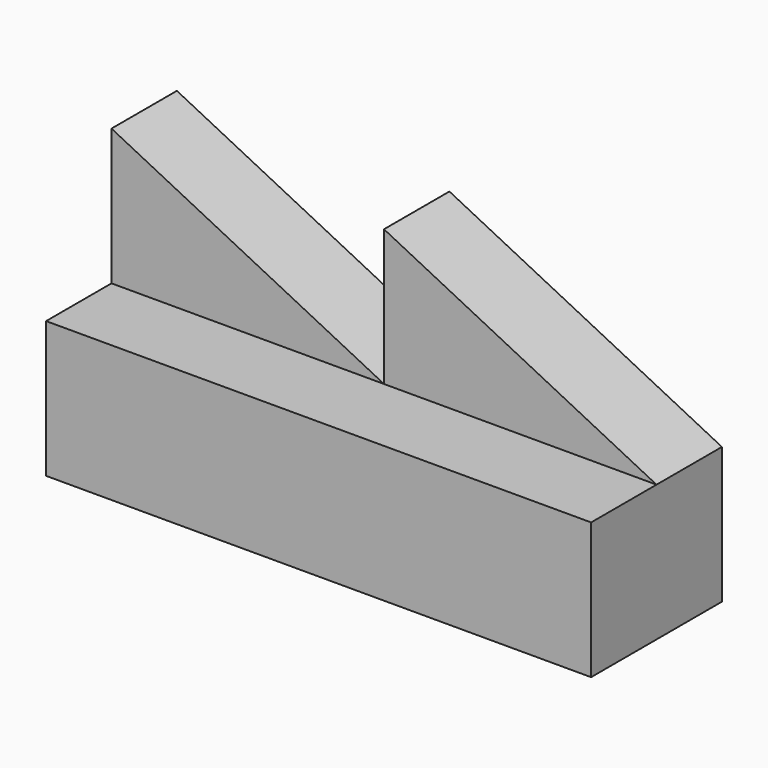
from build123d import *

# Parameters (mm, degrees)
F0_W     = 127
F0_H     = 31.75
F1_DEPTH = 38.1
F3_DEPTH = 19.05


with BuildPart() as f1:
    # F0 (on Front) → F1 (new body)
    with BuildSketch(Plane.XZ):
        with Locations((8.131688, -20.281971)):
            Rectangle(F0_W, F0_H)
    extrude(amount=F1_DEPTH)

    # F2 (on face) → F3 (join)
    with BuildSketch(Plane(origin=(0, 0, 0), x_dir=(-1, 0, 0), z_dir=(0, 1, 0))):
        Polygon((-71.631688, -4.406971), (-8.131688, -4.406971), (-8.131688, 27.343029), align=None)
        Polygon((-8.131688, -4.406971), (55.368312, -4.406971), (55.368312, 27.343029), align=None)
    extrude(amount=-F3_DEPTH)


solid = f1.part
